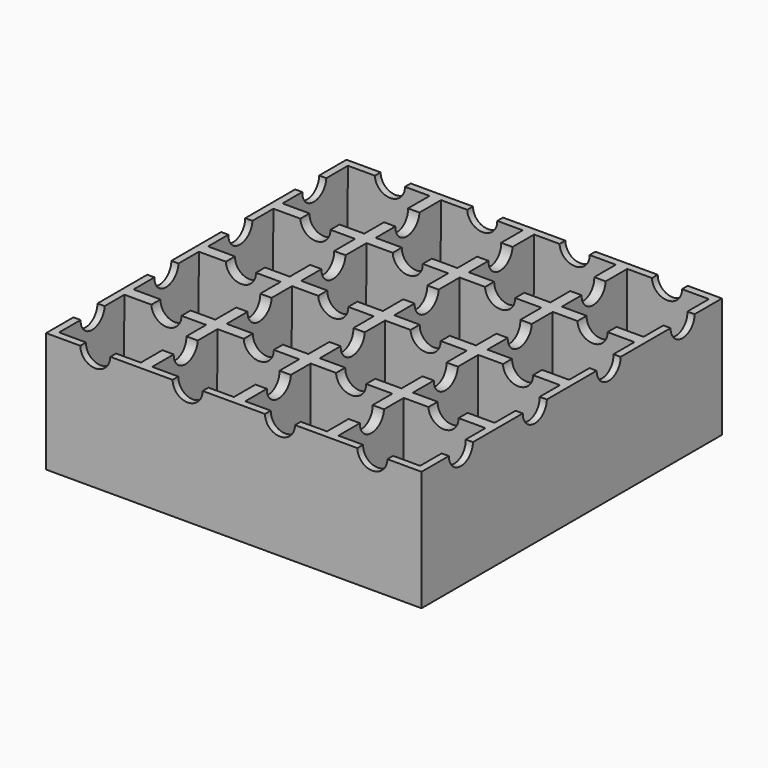
from build123d import *

# Parameters (mm, degrees)
F0_W     = 62.5
F0_H     = 62.5
F1_DEPTH = 40
F2_W     = 30
F2_H     = 30
F3_DEPTH = 40
F3_TAPER = 2
F5_DEPTH = 125
F7_DEPTH = 125


with BuildPart() as f1:
    # F0 (on Top) → F1 (new body)
    with BuildSketch(Plane.XY):
        Polygon((0, 62.5), (0, 0), (0, -62.5), (62.5, -62.5), (62.5, 0), (62.5, 62.5), align=None)
        with Locations((-31.25, 31.25)):
            Rectangle(F0_W, F0_H)
        with Locations((-31.25, -31.25)):
            Rectangle(F0_W, F0_H)
    extrude(amount=F1_DEPTH)

    # F2 (on face) → F3 (cut, through all)
    with BuildSketch(Plane(origin=(0, 0, 0), x_dir=(1, 0, 0), z_dir=(0, 0, -1))):
        with Locations((-46.5, 46.5)):
            Rectangle(F2_W, F2_H)
        with Locations((-46.5, 15.5)):
            Rectangle(F2_W, F2_H)
        with Locations((-46.5, -15.5)):
            Rectangle(F2_W, F2_H)
        with Locations((-46.5, -46.5)):
            Rectangle(F2_W, F2_H)
        with Locations((-15.5, 46.5)):
            Rectangle(F2_W, F2_H)
        with Locations((-15.5, 15.5)):
            Rectangle(F2_W, F2_H)
        with Locations((-15.5, -15.5)):
            Rectangle(F2_W, F2_H)
        with Locations((-15.5, -46.5)):
            Rectangle(F2_W, F2_H)
        with Locations((15.5, 46.5)):
            Rectangle(F2_W, F2_H)
        with Locations((15.5, 15.5)):
            Rectangle(F2_W, F2_H)
        with Locations((15.5, -15.5)):
            Rectangle(F2_W, F2_H)
        with Locations((15.5, -46.5)):
            Rectangle(F2_W, F2_H)
        with Locations((46.5, 46.5)):
            Rectangle(F2_W, F2_H)
        with Locations((46.5, 15.5)):
            Rectangle(F2_W, F2_H)
        with Locations((46.5, -15.5)):
            Rectangle(F2_W, F2_H)
        with Locations((46.5, -46.5)):
            Rectangle(F2_W, F2_H)
    extrude(amount=-F3_DEPTH, taper=F3_TAPER, mode=Mode.SUBTRACT)

    # F4 (on face) → F5 (cut, through all)
    with BuildSketch(Plane.XZ.offset(62.5)):
        with BuildLine():
            Line((20.375, 40), (10.375, 40))
            ThreePointArc((10.375, 40), (15.375, 35), (20.375, 40))
        make_face()
        with BuildLine():
            Line((51.125, 40), (41.125, 40))
            ThreePointArc((41.125, 40), (46.125, 35), (51.125, 40))
        make_face()
        with BuildLine():
            Line((-10.375, 40), (-20.375, 40))
            ThreePointArc((-20.375, 40), (-15.375, 35), (-10.375, 40))
        make_face()
        with BuildLine():
            Line((-41.125, 40), (-51.125, 40))
            ThreePointArc((-51.125, 40), (-46.125, 35), (-41.125, 40))
        make_face()
    extrude(amount=-F5_DEPTH, mode=Mode.SUBTRACT)

    # F6 (on face) → F7 (cut, through all)
    with BuildSketch(Plane(origin=(-62.5, 0, 0), x_dir=(0, -1, 0), z_dir=(-1, 0, 0))):
        with BuildLine():
            Line((-46.125, 40), (-51.125, 40))
            ThreePointArc((-51.125, 40), (-46.125, 35), (-41.125, 40))
            Line((-41.125, 40), (-46.125, 40))
        make_face()
        with BuildLine():
            Line((46.125, 40), (41.125, 40))
            ThreePointArc((41.125, 40), (46.125, 35), (51.125, 40))
            Line((51.125, 40), (46.125, 40))
        make_face()
        with BuildLine():
            Line((15.375, 40), (10.375, 40))
            ThreePointArc((10.375, 40), (15.375, 35), (20.375, 40))
            Line((20.375, 40), (15.375, 40))
        make_face()
        with BuildLine():
            Line((-15.375, 40), (-20.375, 40))
            ThreePointArc((-20.375, 40), (-15.375, 35), (-10.375, 40))
            Line((-10.375, 40), (-15.375, 40))
        make_face()
    extrude(amount=-F7_DEPTH, mode=Mode.SUBTRACT)


solid = f1.part
